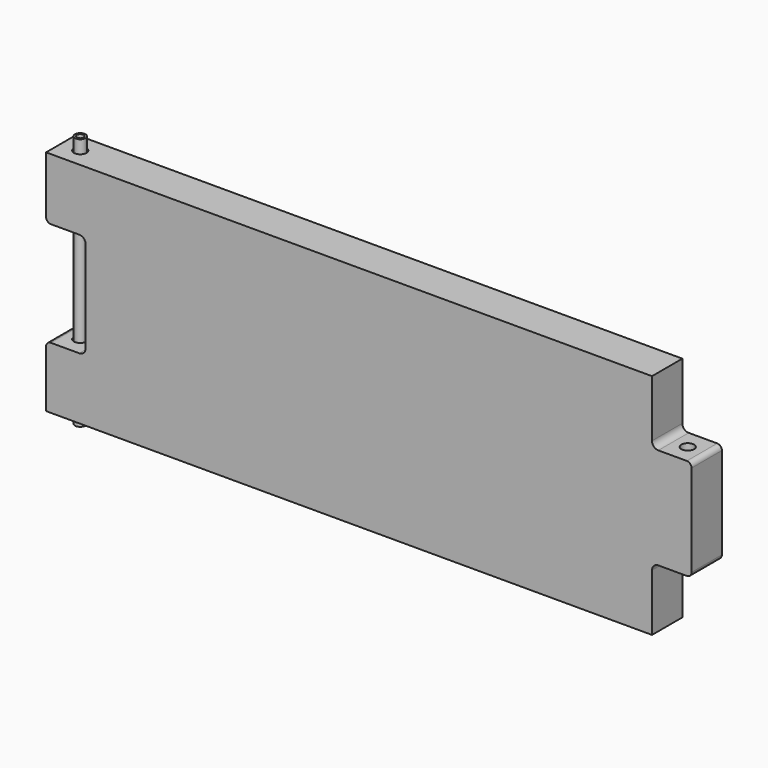
from build123d import *

# Parameters (mm, degrees)
F0_W     = 79.375
F0_H     = 123.825
F0_H_2   = 203.2
F1_DEPTH = 38.1
F2_R     = 12.7
F3_DEPTH = 254
F4_R     = 9.525
F5_R     = 12.7
F7_DEPTH = 25.4
F8_R     = 10.668
F8_R_2   = 6.985
F9_DEPTH = 254


with BuildPart() as f1:
    # F0 (on Front) → F1 (new body, symmetric)
    with BuildSketch(Plane.XZ):
        Polygon((568.325, 228.6), (-568.325, 228.6), (-568.325, 104.775), (-568.325, -104.775), (-568.325, -228.6), (568.325, -228.6), (568.325, -101.6), (568.325, 101.6), align=None)
        with Locations((-608.0125, 166.6875)):
            Rectangle(F0_W, F0_H)
        with Locations((608.0125, 0)):
            Rectangle(F0_W, F0_H_2)
        with Locations((-608.0125, -166.6875)):
            Rectangle(F0_W, F0_H)
    extrude(amount=F1_DEPTH, both=True)

    # F2 (on Top) → F3 (cut, symmetric)
    with BuildSketch(Plane.XY):
        with Locations((-609.6, 0)):
            Circle(F2_R)
        with Locations((609.6, 0)):
            Circle(F2_R)
    extrude(amount=F3_DEPTH, both=True, mode=Mode.SUBTRACT)

    # F4
    f4_edges = [f1.edges().sort_by_distance(p)[0] for p in [
        (647.7, 0, 101.6),
        (647.7, 0, -101.6),
        (-647.7, 0, 104.775),
        (-647.7, 0, -104.775),
    ]]
    fillet(f4_edges, radius=F4_R)

    # F5
    f5_edges = [f1.edges().sort_by_distance(p)[0] for p in [
        (-568.325, 0, 104.775),
        (-568.325, 0, -104.775),
        (568.325, 0, -101.6),
        (568.325, 0, 101.6),
    ]]
    fillet(f5_edges, radius=F5_R)

    # F6 (on Front) → F7 (cut, symmetric)
    with BuildSketch(Plane.XZ):
        with BuildLine():
            Line((-38.1, 203.2), (-517.525, 203.2))
            ThreePointArc((-517.525, 203.2), (-535.4855122421, 195.7605122421), (-542.925, 177.8))
            Line((-542.925, 177.8), (-542.925, 38.1))
            ThreePointArc((-542.925, 38.1), (-535.4855122421, 20.1394877579), (-517.525, 12.7))
            Line((-517.525, 12.7), (-38.1, 12.7))
            ThreePointArc((-38.1, 12.7), (-20.1394877579, 20.1394877579), (-12.7, 38.1))
            Line((-12.7, 38.1), (-12.7, 177.8))
            ThreePointArc((-12.7, 177.8), (-20.1394877579, 195.7605122421), (-38.1, 203.2))
        make_face()
        with BuildLine():
            Line((38.1, 203.2), (-38.1, 203.2))
            ThreePointArc((-38.1, 203.2), (-20.1394877579, 195.7605122421), (-12.7, 177.8))
            Line((-12.7, 177.8), (-12.7, 38.1))
            ThreePointArc((-12.7, 38.1), (-20.1394877579, 20.1394877579), (-38.1, 12.7))
            Line((-38.1, 12.7), (38.1, 12.7))
            ThreePointArc((38.1, 12.7), (20.1394877579, 20.1394877579), (12.7, 38.1))
            Line((12.7, 38.1), (12.7, 177.8))
            ThreePointArc((12.7, 177.8), (20.1394877579, 195.7605122421), (38.1, 203.2))
        make_face()
        with BuildLine():
            Line((517.525, 203.2), (38.1, 203.2))
            ThreePointArc((38.1, 203.2), (20.1394877579, 195.7605122421), (12.7, 177.8))
            Line((12.7, 177.8), (12.7, 38.1))
            ThreePointArc((12.7, 38.1), (20.1394877579, 20.1394877579), (38.1, 12.7))
            Line((38.1, 12.7), (517.525, 12.7))
            ThreePointArc((517.525, 12.7), (535.4855122421, 20.1394877579), (542.925, 38.1))
            Line((542.925, 38.1), (542.925, 177.8))
            ThreePointArc((542.925, 177.8), (535.4855122421, 195.7605122421), (517.525, 203.2))
        make_face()
        with BuildLine():
            Line((517.525, -12.7), (38.1, -12.7))
            ThreePointArc((38.1, -12.7), (20.1394877579, -20.1394877579), (12.7, -38.1))
            Line((12.7, -38.1), (12.7, -177.8))
            ThreePointArc((12.7, -177.8), (20.1394877579, -195.7605122421), (38.1, -203.2))
            Line((38.1, -203.2), (517.525, -203.2))
            ThreePointArc((517.525, -203.2), (535.4855122421, -195.7605122421), (542.925, -177.8))
            Line((542.925, -177.8), (542.925, -38.1))
            ThreePointArc((542.925, -38.1), (535.4855122421, -20.1394877579), (517.525, -12.7))
        make_face()
        with BuildLine():
            ThreePointArc((12.7, -38.1), (20.1394877579, -20.1394877579), (38.1, -12.7))
            Line((38.1, -12.7), (-38.1, -12.7))
            ThreePointArc((-38.1, -12.7), (-20.1394877579, -20.1394877579), (-12.7, -38.1))
            Line((-12.7, -38.1), (-12.7, -177.8))
            ThreePointArc((-12.7, -177.8), (-20.1394877579, -195.7605122421), (-38.1, -203.2))
            Line((-38.1, -203.2), (38.1, -203.2))
            ThreePointArc((38.1, -203.2), (20.1394877579, -195.7605122421), (12.7, -177.8))
            Line((12.7, -177.8), (12.7, -38.1))
        make_face()
        with BuildLine():
            ThreePointArc((-12.7, -38.1), (-20.1394877579, -20.1394877579), (-38.1, -12.7))
            Line((-38.1, -12.7), (-517.525, -12.7))
            ThreePointArc((-517.525, -12.7), (-535.4855122421, -20.1394877579), (-542.925, -38.1))
            Line((-542.925, -38.1), (-542.925, -177.8))
            ThreePointArc((-542.925, -177.8), (-535.4855122421, -195.7605122421), (-517.525, -203.2))
            Line((-517.525, -203.2), (-38.1, -203.2))
            ThreePointArc((-38.1, -203.2), (-20.1394877579, -195.7605122421), (-12.7, -177.8))
            Line((-12.7, -177.8), (-12.7, -38.1))
        make_face()
    extrude(amount=F7_DEPTH, both=True, mode=Mode.SUBTRACT)


with BuildPart() as f9:
    # F8 (on Top) → F9 (new body, symmetric)
    with BuildSketch(Plane.XY):
        with Locations((-609.6, 0)):
            Circle(F8_R)
        with Locations((-609.6, 0)):
            Circle(F8_R_2, mode=Mode.SUBTRACT)
    extrude(amount=F9_DEPTH, both=True)


solid = Compound([f1.part, f9.part])
